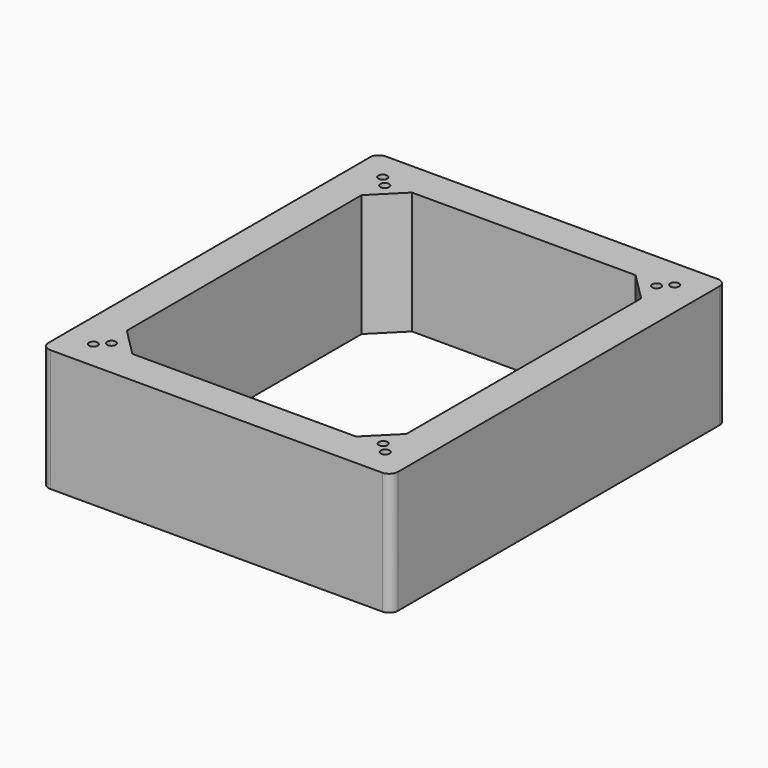
from build123d import *

# Parameters (mm, degrees)
F0_R     = 1.5875
F1_DEPTH = 44.45


with BuildPart() as f1:
    # F0 (on Top) → F1 (new body)
    with BuildSketch(Plane.XY):
        with BuildLine():
            Line((60.531797, 76.456334), (-60.118203, 76.456334))
            ThreePointArc((-60.118203, 76.456334), (-62.363267, 75.526399), (-63.293203, 73.281334))
            Line((-63.293203, 73.281334), (-63.293203, -72.768666))
            ThreePointArc((-63.293203, -72.768666), (-62.363267, -75.01373), (-60.118203, -75.943666))
            Line((-60.118203, -75.943666), (60.531797, -75.943666))
            ThreePointArc((60.531797, -75.943666), (62.776861, -75.01373), (63.706797, -72.768666))
            Line((63.706797, -72.768666), (63.706797, 73.281334))
            ThreePointArc((63.706797, 73.281334), (62.776861, 75.526399), (60.531797, 76.456334))
        make_face()
        with BuildLine():
            ThreePointArc((-56.943203, 66.931334), (-56.013267, 69.176399), (-53.768203, 70.106334))
            Line((-53.768203, 70.106334), (54.181797, 70.106334))
            ThreePointArc((54.181797, 70.106334), (56.426861, 69.176399), (57.356797, 66.931334))
            Line((57.356797, 66.931334), (57.356797, -66.418666))
            ThreePointArc((57.356797, -66.418666), (56.426861, -68.66373), (54.181797, -69.593666))
            Line((54.181797, -69.593666), (-53.768203, -69.593666))
            ThreePointArc((-53.768203, -69.593666), (-56.013267, -68.66373), (-56.943203, -66.418666))
            Line((-56.943203, -66.418666), (-56.943203, 66.931334))
        make_face(mode=Mode.SUBTRACT)
        with BuildLine():
            Line((54.181797, 70.106334), (-53.768203, 70.106334))
            ThreePointArc((-53.768203, 70.106334), (-56.013267, 69.176399), (-56.943203, 66.931334))
            Line((-56.943203, 66.931334), (-56.943203, -66.418666))
            ThreePointArc((-56.943203, -66.418666), (-56.013267, -68.66373), (-53.768203, -69.593666))
            Line((-53.768203, -69.593666), (54.181797, -69.593666))
            ThreePointArc((54.181797, -69.593666), (56.426861, -68.66373), (57.356797, -66.418666))
            Line((57.356797, -66.418666), (57.356797, 66.931334))
            ThreePointArc((57.356797, 66.931334), (56.426861, 69.176399), (54.181797, 70.106334))
        make_face()
        with Locations((-52.834257, -65.484719)):
            Circle(F0_R, mode=Mode.SUBTRACT)
        with BuildLine():
            ThreePointArc((-48.268948, 63.640233), (-47.847518, 63.727175), (-47.418203, 63.756334))
            Line((-47.418203, 63.756334), (-40.433203, 63.756334))
            Line((-40.433203, 63.756334), (40.846797, 63.756334))
            Line((40.846797, 63.756334), (47.831797, 63.756334))
            ThreePointArc((47.831797, 63.756334), (48.261112, 63.727175), (48.682541, 63.640233))
            ThreePointArc((48.682541, 63.640233), (50.321889, 63.738981), (51.171406, 62.333443))
            ThreePointArc((51.171406, 62.333443), (51.099604, 61.861412), (50.890695, 61.432079))
            ThreePointArc((50.890695, 61.432079), (50.977637, 61.01065), (51.006797, 60.581334))
            Line((51.006797, 60.581334), (51.006797, 53.596334))
            Line((51.006797, 53.596334), (51.006797, -53.083666))
            Line((51.006797, -53.083666), (51.006797, -60.698242))
            ThreePointArc((51.006797, -60.698242), (51.000133, -60.882306), (50.980177, -61.065405))
            ThreePointArc((50.980177, -61.065405), (51.122856, -61.431175), (51.171406, -61.820774))
            ThreePointArc((51.171406, -61.820774), (50.39662, -63.184465), (48.828536, -63.217046))
            ThreePointArc((48.828536, -63.217046), (48.645437, -63.237002), (48.461374, -63.243666))
            Line((48.461374, -63.243666), (40.846797, -63.243666))
            Line((40.846797, -63.243666), (-40.433203, -63.243666))
            Line((-40.433203, -63.243666), (-47.418203, -63.243666))
            ThreePointArc((-47.418203, -63.243666), (-47.847518, -63.214506), (-48.268948, -63.127564))
            ThreePointArc((-48.268948, -63.127564), (-50.292844, -62.943306), (-50.477102, -60.91941))
            ThreePointArc((-50.477102, -60.91941), (-50.564044, -60.497981), (-50.593203, -60.068666))
            Line((-50.593203, -60.068666), (-50.593203, -53.083666))
            Line((-50.593203, -53.083666), (-50.593203, 53.596334))
            Line((-50.593203, 53.596334), (-50.593203, 60.581334))
            ThreePointArc((-50.593203, 60.581334), (-50.564044, 61.01065), (-50.477102, 61.432079))
            ThreePointArc((-50.477102, 61.432079), (-50.292844, 63.455975), (-48.268948, 63.640233))
        make_face(mode=Mode.SUBTRACT)
        with Locations((53.24785, -65.484719)):
            Circle(F0_R, mode=Mode.SUBTRACT)
        with Locations((-52.834257, 65.997388)):
            Circle(F0_R, mode=Mode.SUBTRACT)
        with Locations((53.24785, 65.997388)):
            Circle(F0_R, mode=Mode.SUBTRACT)
        with BuildLine():
            Line((-40.433203, 63.756334), (-47.418203, 63.756334))
            ThreePointArc((-47.418203, 63.756334), (-47.847518, 63.727175), (-48.268948, 63.640233))
            ThreePointArc((-48.268948, 63.640233), (-47.764774, 63.071427), (-47.582812, 62.333443))
            ThreePointArc((-47.582812, 62.333443), (-48.69828, 60.817745), (-50.477102, 61.432079))
            ThreePointArc((-50.477102, 61.432079), (-50.564044, 61.01065), (-50.593203, 60.581334))
            Line((-50.593203, 60.581334), (-50.593203, 53.596334))
            Line((-50.593203, 53.596334), (-40.433203, 63.756334))
        make_face()
        with BuildLine():
            Line((47.831797, 63.756334), (40.846797, 63.756334))
            Line((40.846797, 63.756334), (51.006797, 53.596334))
            Line((51.006797, 53.596334), (51.006797, 60.581334))
            ThreePointArc((51.006797, 60.581334), (50.977637, 61.01065), (50.890695, 61.432079))
            ThreePointArc((50.890695, 61.432079), (48.461374, 61.210911), (48.682541, 63.640233))
            ThreePointArc((48.682541, 63.640233), (48.261112, 63.727175), (47.831797, 63.756334))
        make_face()
        with BuildLine():
            Line((51.006797, -60.698242), (51.006797, -53.083666))
            Line((51.006797, -53.083666), (40.846797, -63.243666))
            Line((40.846797, -63.243666), (48.461374, -63.243666))
            ThreePointArc((48.461374, -63.243666), (48.645437, -63.237002), (48.828536, -63.217046))
            ThreePointArc((48.828536, -63.217046), (48.461374, -60.698242), (50.980177, -61.065405))
            ThreePointArc((50.980177, -61.065405), (51.000133, -60.882306), (51.006797, -60.698242))
        make_face()
        with BuildLine():
            Line((-40.433203, -63.243666), (-50.593203, -53.083666))
            Line((-50.593203, -53.083666), (-50.593203, -60.068666))
            ThreePointArc((-50.593203, -60.068666), (-50.564044, -60.497981), (-50.477102, -60.91941))
            ThreePointArc((-50.477102, -60.91941), (-48.69828, -60.305076), (-47.582812, -61.820774))
            ThreePointArc((-47.582812, -61.820774), (-47.764774, -62.558758), (-48.268948, -63.127564))
            ThreePointArc((-48.268948, -63.127564), (-47.847518, -63.214506), (-47.418203, -63.243666))
            Line((-47.418203, -63.243666), (-40.433203, -63.243666))
        make_face()
    extrude(amount=F1_DEPTH)


solid = f1.part
